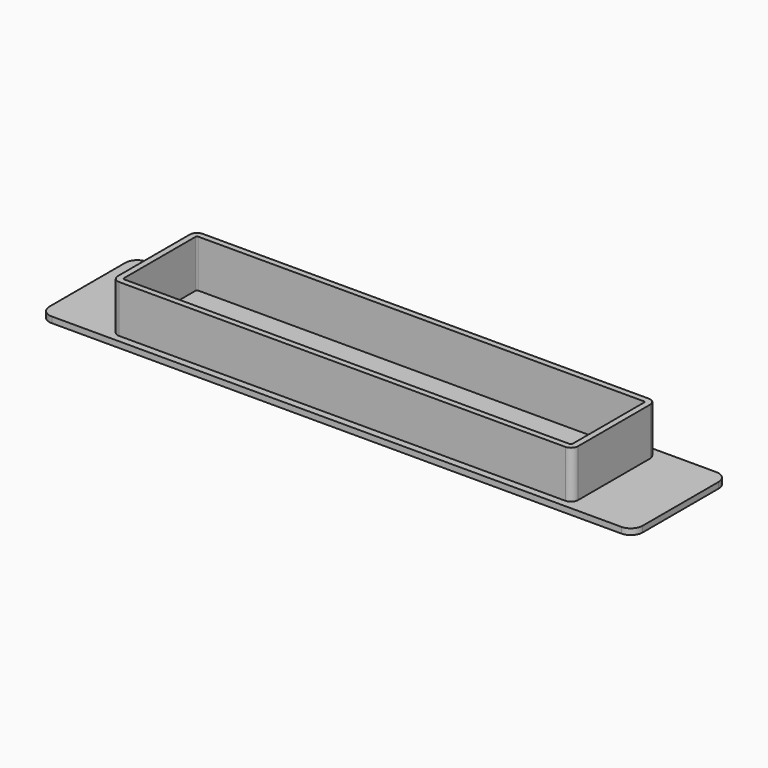
from build123d import *

# Parameters (mm, degrees)
F0_W     = 250
F0_H     = 50
F1_DEPTH = 2.5
F2_W     = 194
F2_H     = 44
F3_DEPTH = 20
F4_R     = 3
F5_T     = -2.5
F6_R     = 5


with BuildPart() as f1:
    # F0 (on Top) → F1 (new body)
    with BuildSketch(Plane.XY):
        with Locations((-100, 25)):
            Rectangle(F0_W, F0_H)
    extrude(amount=F1_DEPTH)

    # F2 (on face) → F3 (join)
    with BuildSketch(Plane.XY.offset(2.5)):
        with Locations((-100, 25)):
            Rectangle(F2_W, F2_H)
    extrude(amount=F3_DEPTH)

    # F4
    f4_edges = [f1.edges().sort_by_distance(p)[0] for p in [
        (-197, 3, 12.5),
        (-3, 3, 12.5),
        (-3, 47, 12.5),
        (-197, 47, 12.5),
    ]]
    fillet(f4_edges, radius=F4_R)

    # F5
    f5_openings = [f1.faces().sort_by_distance(p)[0] for p in [
        (-100, 25, 22.5),
    ]]
    offset(amount=F5_T, openings=f5_openings, kind=Kind.INTERSECTION)

    # F6
    f6_edges = [f1.edges().sort_by_distance(p)[0] for p in [
        (25, 0, 1.25),
        (25, 50, 1.25),
        (-225, 50, 1.25),
        (-225, 0, 1.25),
    ]]
    fillet(f6_edges, radius=F6_R)


solid = f1.part
